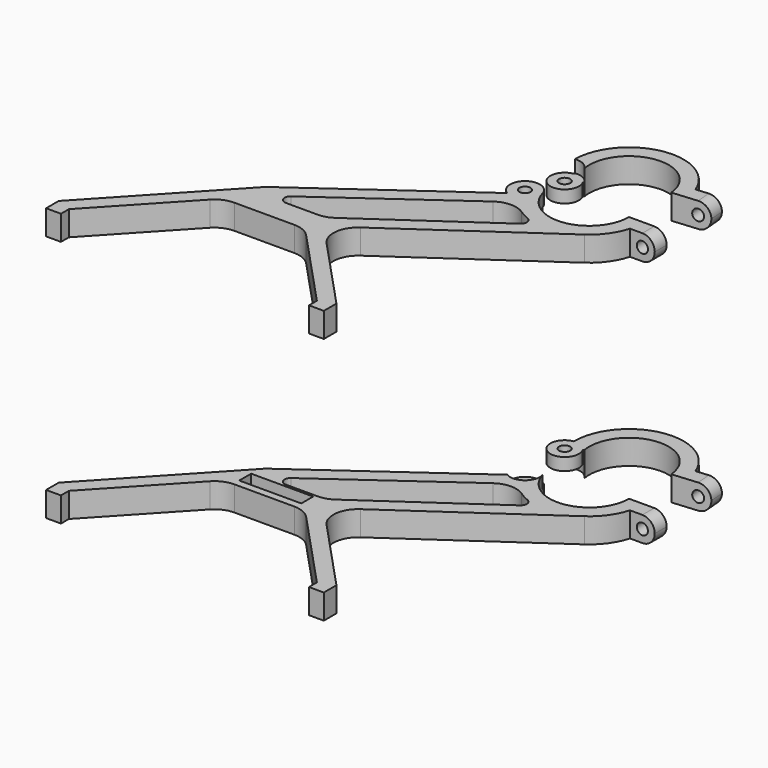
from build123d import *

# Parameters (mm, degrees)
F0_R      = 2.25
F1_DEPTH  = 5
F2_R      = 2.25
F3_DEPTH  = 6.001
F4_W      = 25
F4_H      = 6
F5_DEPTH  = 8
F6_R      = 6
F7_DEPTH  = 5
F8_R      = 2.25
F9_DEPTH  = 5
F11_R     = 6.25
F12_DEPTH = 5
F13_R     = 2.25
F14_DEPTH = 138.1653961935


with BuildPart() as f1:
    # F0 (on Top) → F1 (new body, symmetric)
    with BuildSketch(Plane.XY):
        with BuildLine():
            ThreePointArc((45.2922908759, 54.8255765516), (44.8986295563, 54.513700155), (44.5382414229, 54.1639051942))
            Line((44.5382414229, 54.1639051942), (0, 6.3619982556))
            Line((0, 6.3619982556), (0, 0))
            Line((0, 0), (6, 0))
            Line((6, 0), (6, 4))
            Line((6, 4), (36.5763252199, 36.8168918662))
            ThreePointArc((36.5763252199, 36.8168918662), (39.9033154895, 39.1697578666), (43.8927441038, 40))
            Line((43.8927441038, 40), (68.1072558962, 40))
            ThreePointArc((68.1072558962, 40), (72.0966845105, 39.1697578666), (75.4236747801, 36.8168918662))
            Line((75.4236747801, 36.8168918662), (106, 4))
            Line((106, 4), (106, 0))
            Line((106, 0), (112, 0))
            Line((112, 0), (112, 6.3619982556))
            Line((112, 6.3619982556), (83.8728006028, 36.5502976826))
            Line((83.8728006028, 36.5502976826), (76, 45))
            Line((76, 45), (85.4888247547, 51.5833626179))
            Line((85.4888247547, 51.5833626179), (143.6337635957, 91.9244192482))
            ThreePointArc((143.6337635957, 91.9244192482), (148.9952227966, 97.2130274849), (152.2589056739, 104))
            Line((152.2589056739, 104), (162.2589056739, 104))
            Line((162.2589056739, 104), (162.2589056739, 110))
            Line((162.2589056739, 110), (147.0928951854, 110))
            ThreePointArc((147.0928951854, 110), (133.2956894591, 94.1523598795), (115.6994330119, 105.6363636364))
            ThreePointArc((115.6994330119, 105.6363636364), (113.5450208318, 108.7863442113), (109.9268846968, 110))
            ThreePointArc((109.9268846968, 110), (104.1313297391, 105.5529142706), (106.9268846968, 98.8038475773))
            Line((106.9268846968, 98.8038475773), (45.2922908759, 54.8255765516))
        make_face()
        with BuildLine():
            Line((56.6672257254, 50), (48.8593593156, 50))
            Line((48.8593593156, 50), (55.215145731, 54.5350586453))
            Line((55.215145731, 54.5350586453), (107.0210802666, 91.5002641979))
            Line((107.0210802666, 91.5002641979), (113.5878346684, 96.1858553074))
            ThreePointArc((113.5878346684, 96.1858553074), (115.8628540828, 93.7118575245), (118.4838596808, 91.6078831851))
            ThreePointArc((118.4838596808, 91.6078831851), (120.5041784556, 90.3750970625), (122.6437757421, 89.3633792029))
            ThreePointArc((122.6437757421, 89.3633792029), (125.0094620608, 88.5465718658), (127.4517775973, 88))
            Line((127.4517775973, 88), (123.1216329975, 84.9957383738))
            Line((123.1216329975, 84.9957383738), (75.2521739169, 51.783826931))
            ThreePointArc((75.2521739169, 51.783826931), (72.5382712165, 50.4563704313), (69.5517791849, 50))
            Line((69.5517791849, 50), (56.6672257254, 50))
        make_face(mode=Mode.SUBTRACT)
        with Locations((109.9268846968, 104)):
            Circle(F0_R, mode=Mode.SUBTRACT)
        with BuildLine():
            ThreePointArc((83.8728006028, 36.5502976826), (81.2465025786, 44.4360115574), (85.4888247547, 51.5833626179))
            Line((85.4888247547, 51.5833626179), (76, 45))
            Line((76, 45), (83.8728006028, 36.5502976826))
        make_face()
        with BuildLine():
            Line((55.215145731, 54.5350586453), (48.8593593156, 50))
            Line((48.8593593156, 50), (56.6672257254, 50))
            ThreePointArc((56.6672257254, 50), (54.2862966407, 51.7376505438), (55.215145731, 54.5350586453))
        make_face()
        with BuildLine():
            Line((113.5878346684, 96.1858553074), (107.0210802666, 91.5002641979))
            ThreePointArc((107.0210802666, 91.5002641979), (112.7355187864, 93.3595889207), (118.4838596808, 91.6078831851))
            ThreePointArc((118.4838596808, 91.6078831851), (115.8628540828, 93.7118575245), (113.5878346684, 96.1858553074))
        make_face()
        with BuildLine():
            ThreePointArc((122.6437757421, 89.3633792029), (124.1817045306, 87.321680514), (123.1216329975, 84.9957383738))
            Line((123.1216329975, 84.9957383738), (127.4517775973, 88))
            ThreePointArc((127.4517775973, 88), (125.0094620608, 88.5465718658), (122.6437757421, 89.3633792029))
        make_face()
    extrude(amount=F1_DEPTH, both=True)

    # F2 (on face) → F3 (cut, through all)
    with BuildSketch(Plane.XZ.offset(-104)):
        with Locations((157.2589056739, 0)):
            Circle(F2_R)
        with BuildLine():
            ThreePointArc((157.2589056739, 5), (160.7944396027, 3.5355338831), (162.2589056739, -6.47e-08))
            Line((162.2589056739, -6.47e-08), (162.2589056739, 5))
            Line((162.2589056739, 5), (157.2589056739, 5))
        make_face()
        with BuildLine():
            ThreePointArc((162.2589056739, -6.47e-08), (160.7944395569, -3.5355339288), (157.2589056739, -5))
            Line((157.2589056739, -5), (162.2589056739, -5))
            Line((162.2589056739, -5), (162.2589056739, -6.47e-08))
        make_face()
    extrude(amount=-F3_DEPTH, mode=Mode.SUBTRACT)

    # F4 (on face) → F5 (cut)
    with BuildSketch(Plane.XY.offset(5)):
        with Locations((56, 46)):
            Rectangle(F4_W, F4_H)
    extrude(amount=-F5_DEPTH, mode=Mode.SUBTRACT)

    # F6 (on face) → F7 (cut)
    with BuildSketch(Plane.XY.offset(5)):
        with Locations((109.9268846968, 104)):
            Circle(F6_R)
    extrude(amount=-F7_DEPTH, mode=Mode.SUBTRACT)


with BuildPart() as f9:
    # F8 (on Top) → F9 (new body)
    with BuildSketch(Plane.XY):
        with BuildLine():
            ThreePointArc((115.3679791924, 127.0752220554), (128.9747845953, 145.801014395), (147.0478180481, 131.3384449888))
            Line((147.0478180481, 131.3384449888), (162.156117288, 132.6602498974))
            Line((162.156117288, 132.6602498974), (161.6331828315, 138.637418086))
            Line((161.6331828315, 138.637418086), (151.6712358506, 137.7658606585))
            ThreePointArc((151.6712358506, 137.7658606585), (127.0082689238, 151.5584491985), (109.1101491055, 129.6916994803))
            ThreePointArc((109.1101491055, 129.6916994803), (112.4637231544, 129.1601308743), (114.9326916328, 126.829204291))
            Line((114.9326916328, 126.829204291), (115.3679791924, 127.0752220554))
        make_face()
        with BuildLine():
            ThreePointArc((115.6768846968, 124), (115.4877250057, 125.4627217983), (114.9326916328, 126.829204291))
            ThreePointArc((114.9326916328, 126.829204291), (112.4637231544, 129.1601308743), (109.1101491055, 129.6916994803))
            ThreePointArc((109.1101491055, 129.6916994803), (106.1608343553, 119.6549608949), (115.6768846968, 124))
        make_face()
        with Locations((109.9268846968, 124)):
            Circle(F8_R, mode=Mode.SUBTRACT)
    extrude(amount=F9_DEPTH)

    # F10: F9 across plane


with BuildPart() as f9_1:
    add(f9.part)
    add(f9.part.mirror(Plane.XY))

    # F11 (on face) → F12 (cut)
    with BuildSketch(Plane(origin=(0, 0, -5), x_dir=(1, 0, 0), z_dir=(0, 0, -1))):
        with Locations((109.9268846968, -124)):
            Circle(F11_R)
    extrude(amount=-F12_DEPTH, mode=Mode.SUBTRACT)

    # F13 (on face) → F14 (cut, through all)
    with BuildSketch(Plane(origin=(-10.809281886, 123.5506573127, 0), x_dir=(-0.9961946981, -0.0871557427, 0), z_dir=(-0.0871557427, 0.9961946981, 0))):
        with Locations((-168.1011669183, 0)):
            Circle(F13_R)
        with BuildLine():
            ThreePointArc((-168.1011669183, -5), (-171.6367008471, -3.5355338831), (-173.1011669183, 6.47e-08))
            Line((-173.1011669183, 6.47e-08), (-173.1011669183, -5))
            Line((-173.1011669183, -5), (-168.1011669183, -5))
        make_face()
        with BuildLine():
            ThreePointArc((-173.1011669183, 6.47e-08), (-171.6367008014, 3.5355339288), (-168.1011669183, 5))
            Line((-168.1011669183, 5), (-173.1011669183, 5))
            Line((-173.1011669183, 5), (-173.1011669183, 6.47e-08))
        make_face()
    extrude(amount=-F14_DEPTH, mode=Mode.SUBTRACT)


with BuildPart() as f16_1:
    # F16: instance of F1
    add(f1.part.mirror(Plane.XY.offset(50)))


with BuildPart() as f17_1:
    # F17: instance of F9
    add(f9_1.part.mirror(Plane.XY.offset(50)))


solid = Compound([f1.part, f9_1.part, f16_1.part, f17_1.part])
